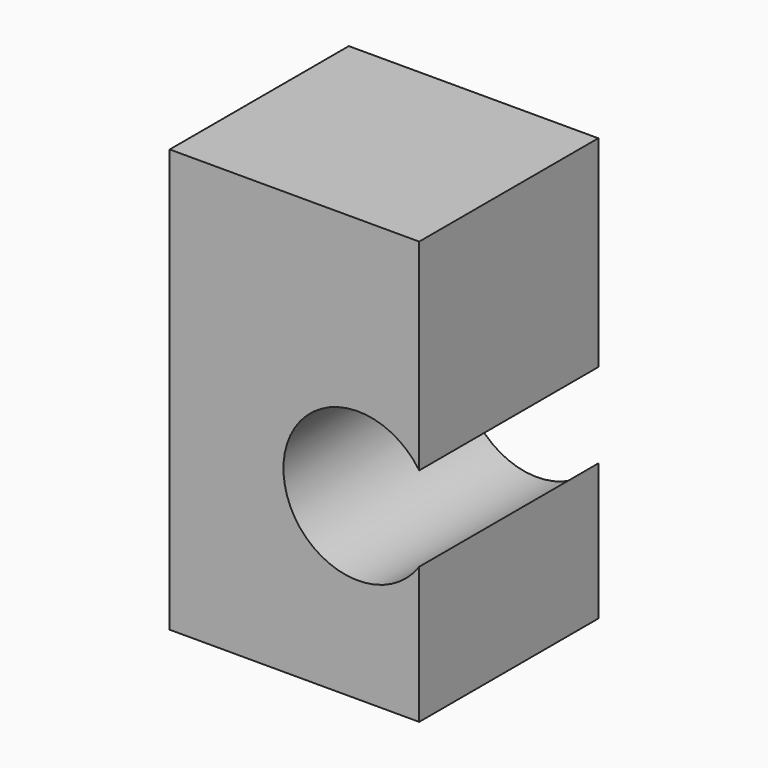
from build123d import *

# Parameters (mm, degrees)
F0_W     = 64.466022
F0_H     = 57.840139
F2_DEPTH = 109.263172
F4_DEPTH = 25.4
F6_DEPTH = 80.09805


with BuildPart() as f2:
    # F0 (on Top) → F2 (new body)
    with BuildSketch(Plane.XY):
        with Locations((-16.400989, 28.92007)):
            Rectangle(F0_W, F0_H)
    extrude(amount=F2_DEPTH)

    # F3 (on face) → F4 (cut)
    with BuildSketch(Plane.XZ):
        with BuildLine():
            ThreePointArc((15.832022, 35.303479), (18.376977, 40.519505), (19.251797, 46.256961))
            ThreePointArc((19.251797, 46.256961), (18.376977, 51.994417), (15.832022, 57.210442))
            Line((15.832022, 57.210442), (15.832022, 35.303479))
        make_face()
    extrude(amount=-F4_DEPTH, mode=Mode.SUBTRACT)

    # F5 (on face) → F6 (cut)
    with BuildSketch(Plane.XZ):
        with BuildLine():
            ThreePointArc((15.832022, 57.210442), (-19.251797, 46.256961), (15.832022, 35.303479))
            Line((15.832022, 35.303479), (15.832022, 57.210442))
        make_face()
    extrude(amount=-F6_DEPTH, mode=Mode.SUBTRACT)


solid = f2.part
